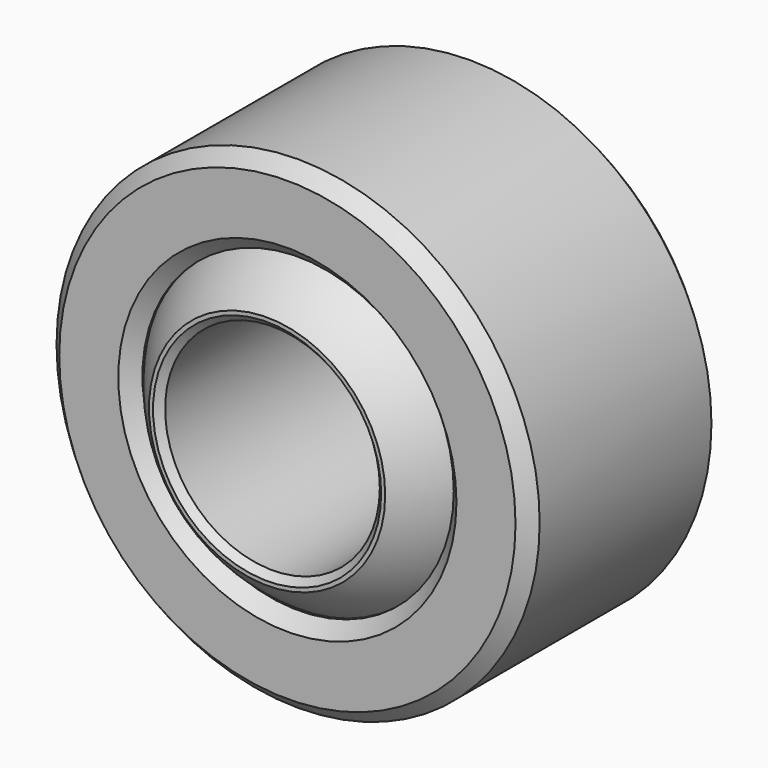
from build123d import *

# Parameters (mm, degrees)
F5_SIZE = 1.5875
F6_SIZE = 0.79375
F7_SIZE = 1.5875


with BuildPart() as f2:
    # F0 (on Top) → F2 (revolve)
    with BuildSketch(Plane.XY):
        with BuildLine():
            Line((12.7, -17.285535), (13.97, -17.285535))
            ThreePointArc((13.97, -17.285535), (22.225, 0), (13.97, 17.285535))
            Line((13.97, 17.285535), (12.7, 17.285535))
            Line((12.7, 17.285535), (12.7, -17.285535))
        make_face()
    revolve(axis=Axis((0, 40.697299, 0), (0, 1, 0)))

    # F6
    f6_edges = [f2.edges().sort_by_distance(p)[0] for p in [
        (-12.7, 17.285535, 0),
        (-12.7, -17.285535, 0),
    ]]
    chamfer(f6_edges, length=F6_SIZE)


with BuildPart() as f4:
    # F3 (on Top) → F4 (revolve)
    with BuildSketch(Plane.XY):
        with BuildLine():
            Line((28.575, 14.2875), (18.415, 14.2875))
            Line((18.415, 14.2875), (18.415, 12.443408))
            ThreePointArc((18.415, 12.443408), (22.225, 0), (18.415, -12.443408))
            Line((18.415, -12.443408), (18.415, -14.2875))
            Line((18.415, -14.2875), (28.575, -14.2875))
            Line((28.575, -14.2875), (28.575, 14.2875))
        make_face()
    revolve(axis=Axis((0, 40.697299, 0), (0, 1, 0)))

    # F5
    f5_edges = [f4.edges().sort_by_distance(p)[0] for p in [
        (-28.575, 14.2875, 0),
        (-28.575, -14.2875, 0),
    ]]
    chamfer(f5_edges, length=F5_SIZE)

    # F7
    f7_edges = [f4.edges().sort_by_distance(p)[0] for p in [
        (-18.415, -14.2875, 0),
        (-18.415, 14.2875, 0),
    ]]
    chamfer(f7_edges, length=F7_SIZE)


solid = Compound([f2.part, f4.part])
